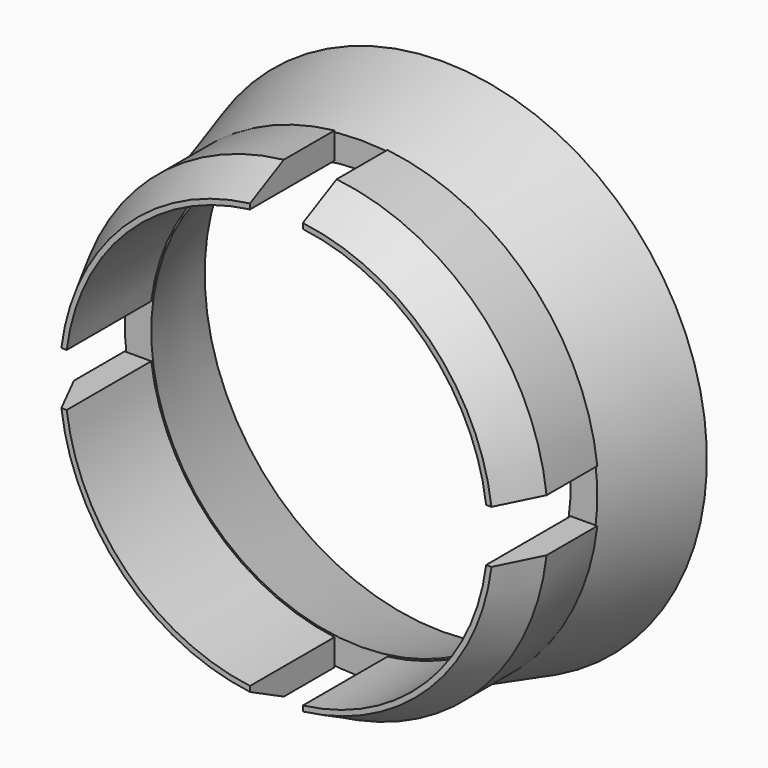
from build123d import *

# Parameters (mm, degrees)
F1_DEPTH   = 25.4
F4_SIZE2   = 10.16
F4_SIZE    = 5.08
F4_2_SIZE2 = 10.16
F4_2_SIZE  = 5.08
F4_3_SIZE2 = 10.16
F4_3_SIZE  = 5.08
F4_4_SIZE2 = 10.16
F4_4_SIZE  = 5.08


with BuildPart() as f1:
    # F0 (on Front) → F1 (new body)
    with BuildSketch(Plane.XZ):
        with BuildLine():
            ThreePointArc((-50.4015624758, 6.35), (-35.9210244843, 35.9210244843), (-6.35, 50.4015624758))
            Line((-6.35, 50.4015624758), (-6.35, 56.7961266285))
            ThreePointArc((-6.35, 56.7961266285), (-40.4111525448, 40.4111525448), (-56.7961266285, 6.35))
            Line((-56.7961266285, 6.35), (-50.4015624758, 6.35))
        make_face()
    extrude(amount=F1_DEPTH)

    # F4#2
    f4_2_edges = [f1.edges().sort_by_distance(p)[0] for p in [
        (-40.411153, -25.4, 40.411153),
    ]]
    f4_2_side = f1.faces().sort_by_distance((-36.425486, -25.4, 36.425486))[0]
    chamfer(f4_2_edges, length=F4_2_SIZE, length2=F4_2_SIZE2, reference=f4_2_side)


with BuildPart() as f1b:
    # F0 (on Front) → F1, piece 2 (new body)
    with BuildSketch(Plane.XZ):
        with BuildLine():
            ThreePointArc((6.35, 50.4015624758), (35.9210244843, 35.9210244843), (50.4015624758, 6.35))
            Line((50.4015624758, 6.35), (56.7961266285, 6.35))
            ThreePointArc((56.7961266285, 6.35), (40.4111525448, 40.4111525448), (6.35, 56.7961266285))
            Line((6.35, 56.7961266285), (6.35, 50.4015624758))
        make_face()
    extrude(amount=F1_DEPTH)

    # F4
    f4_edges = [f1b.edges().sort_by_distance(p)[0] for p in [
        (40.411153, -25.4, 40.411153),
    ]]
    f4_side = f1b.faces().sort_by_distance((7.063416, -25.4, 53.598845))[0]
    chamfer(f4_edges, length=F4_SIZE, length2=F4_SIZE2, reference=f4_side)


with BuildPart() as f1c:
    # F0 (on Front) → F1, piece 3 (new body)
    with BuildSketch(Plane.XZ):
        with BuildLine():
            Line((56.7961266285, -6.35), (50.4015624758, -6.35))
            ThreePointArc((50.4015624758, -6.35), (35.9210244843, -35.9210244843), (6.35, -50.4015624758))
            Line((6.35, -50.4015624758), (6.35, -56.7961266285))
            ThreePointArc((6.35, -56.7961266285), (40.4111525448, -40.4111525448), (56.7961266285, -6.35))
        make_face()
    extrude(amount=F1_DEPTH)

    # F4#4
    f4_4_edges = [f1c.edges().sort_by_distance(p)[0] for p in [
        (40.411153, -25.4, -40.411153),
    ]]
    f4_4_side = f1c.faces().sort_by_distance((39.906691, -25.4, -39.906691))[0]
    chamfer(f4_4_edges, length=F4_4_SIZE, length2=F4_4_SIZE2, reference=f4_4_side)


with BuildPart() as f1d:
    # F0 (on Front) → F1, piece 4 (new body)
    with BuildSketch(Plane.XZ):
        with BuildLine():
            Line((-6.35, -56.7961266285), (-6.35, -50.4015624758))
            ThreePointArc((-6.35, -50.4015624758), (-35.9210244843, -35.9210244843), (-50.4015624758, -6.35))
            Line((-50.4015624758, -6.35), (-56.7961266285, -6.35))
            ThreePointArc((-56.7961266285, -6.35), (-40.4111525448, -40.4111525448), (-6.35, -56.7961266285))
        make_face()
    extrude(amount=F1_DEPTH)

    # F4#3
    f4_3_edges = [f1d.edges().sort_by_distance(p)[0] for p in [
        (-40.411153, -25.4, -40.411153),
    ]]
    f4_3_side = f1d.faces().sort_by_distance((-39.906691, -25.4, -39.906691))[0]
    chamfer(f4_3_edges, length=F4_3_SIZE, length2=F4_3_SIZE2, reference=f4_3_side)


with BuildPart() as f3:
    # F2 (on Right) → F3 (revolve)
    with BuildSketch(Plane.YZ):
        Polygon((24.4871107112, 63.5445641527), (0, 56.7961266285), (0, 50.4015624758), (24.4871107112, 57.15), align=None)
    revolve(axis=Axis((0, 13.5470032692, 0), (0, 1, 0)))


solid = Compound([f1.part, f1b.part, f1c.part, f1d.part, f3.part])
